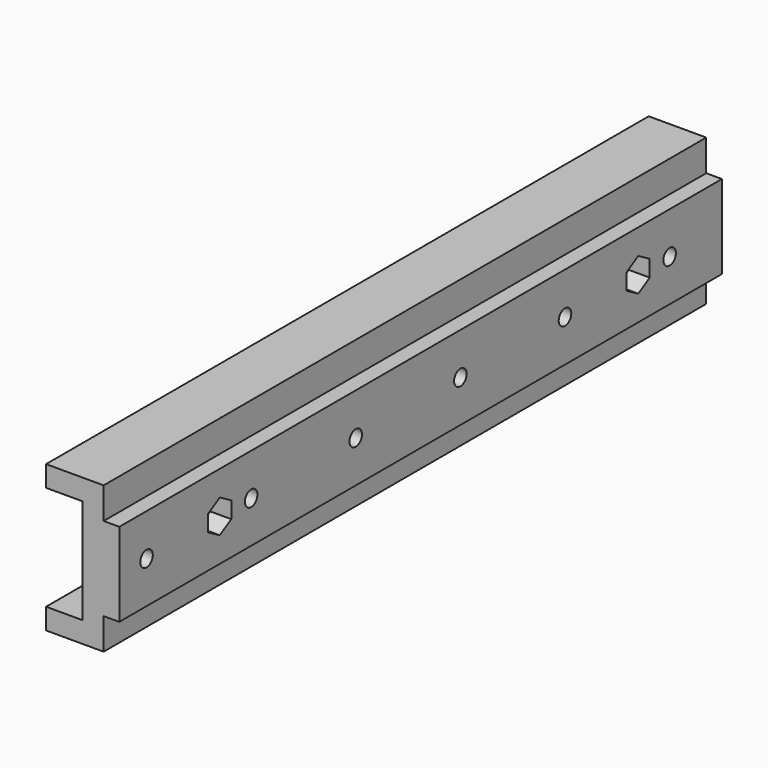
from build123d import *

# Parameters (mm, degrees)
PAD024_DEPTH            = 144
SKETCH039_R             = 1.5
POCKET006_DEPTH         = 7
POCKET007_DEPTH         = 4
SKETCH007_R             = 1.5
POCKET010_DEPTH         = 7
POCKET011_DEPTH         = 5
BODY012_PLACEMENT_ANGLE = 180


with BuildPart() as rightfront:
    # Sketch038 → Pad024 (new body)
    with BuildSketch(Plane.XZ):
        Polygon((0, 0), (0, 10), (-7, 10), (-7, 14), (4, 14), (4, 8), (7, 8), (7, -8), (4, -8), (4, -14), (-7, -14), (-7, -10), (0, -10), align=None)
    extrude(amount=PAD024_DEPTH)

    # Sketch039 (on Face6 of Pad024) → Pocket006 (cut)
    with BuildSketch(Plane(origin=(7, 0, 0), x_dir=(0, 0, 1), z_dir=(1, 0, 0))):
        with Locations((0, 120)):
            Circle(SKETCH039_R)
        with Locations((0, 20)):
            Circle(SKETCH039_R)
    extrude(amount=-POCKET006_DEPTH, mode=Mode.SUBTRACT)

    # Sketch040 (on Face12 of Pocket006) → Pocket007 (cut)
    with BuildSketch(Plane(origin=(7, 0, 0), x_dir=(0, 0, 1), z_dir=(1, 0, 0))):
        Polygon((3.176, 20), (1.588, 22.750497), (-1.588, 22.750497), (-3.176, 20), (-1.588, 17.249503), (1.588, 17.249503), align=None)
        Polygon((3.176, 120), (1.588, 122.750497), (-1.588, 122.750497), (-3.176, 120), (-1.588, 117.249503), (1.588, 117.249503), align=None)
    extrude(amount=-POCKET007_DEPTH, mode=Mode.SUBTRACT)

    # Sketch007 (on Face2 of Pocket007) → Pocket010 (cut)
    with BuildSketch(Plane(origin=(0, 0, 0), x_dir=(0, 0, -1), z_dir=(-1, 0, 0))):
        with Locations((0, 12.5)):
            Circle(SKETCH007_R)
        with Locations((0, 37.5)):
            Circle(SKETCH007_R)
        with Locations((0, 62.5)):
            Circle(SKETCH007_R)
        with Locations((0, 87.5)):
            Circle(SKETCH007_R)
        with Locations((0, 112.5)):
            Circle(SKETCH007_R)
        with Locations((0, 137.5)):
            Circle(SKETCH007_R)
    extrude(amount=-POCKET010_DEPTH, mode=Mode.SUBTRACT)

    # Sketch011 → Pocket011 (cut)
    with BuildSketch(Plane(origin=(0, 0, 0), x_dir=(0, 0, -1), z_dir=(-1, 0, 0))):
        Polygon((3.175366, 12.563434), (1.532748, 15.281665), (-1.642619, 15.218231), (-3.175366, 12.436566), (-1.532748, 9.718335), (1.642619, 9.781769), align=None)
        Polygon((3.175984, 37.50994), (1.579384, 40.255453), (-1.5966, 40.245513), (-3.175984, 37.49006), (-1.579384, 34.744547), (1.5966, 34.754487), align=None)
        Polygon((3.176, 62.500829), (1.587282, 65.250911), (-1.588718, 65.250082), (-3.176, 62.499171), (-1.587282, 59.749089), (1.588718, 59.749918), align=None)
        Polygon((3.176, 87.500019), (1.587984, 90.250506), (-1.588016, 90.250487), (-3.176, 87.499981), (-1.587984, 84.749494), (1.588016, 84.749513), align=None)
        Polygon((3.176, 112.5), (1.588, 115.250497), (-1.588, 115.250497), (-3.176, 112.5), (-1.588, 109.749503), (1.588, 109.749503), align=None)
        Polygon((3.176, 137.5), (1.588, 140.250497), (-1.588, 140.250497), (-3.176, 137.5), (-1.588, 134.749503), (1.588, 134.749503), align=None)
    extrude(amount=-POCKET011_DEPTH, mode=Mode.SUBTRACT)


with BuildPart() as rightfront_1:
    # Body012 placement: moved
    add(rightfront.part.moved(Location((76, -59.5, 13.5))).rotate(Axis((76, -59.5, 13.5), (0, 1, 0)), BODY012_PLACEMENT_ANGLE))


with BuildPart() as leftfront:
    # Part__Mirroring001: instance of RightFront
    add(rightfront_1.part.mirror(Plane(origin=(0, 0, 0), x_dir=(0, -1, 0), z_dir=(1, 0, 0))))


solid = leftfront.part
